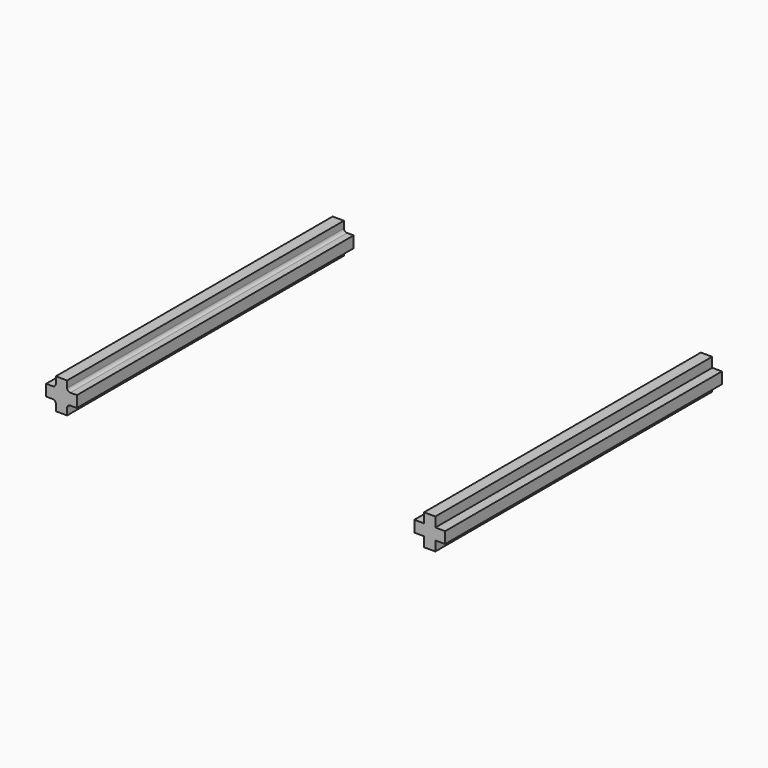
from build123d import *

# Parameters (mm, degrees)
F1_DEPTH = 55
F2_R     = 0.5


with BuildPart() as f1:
    # F0 (on Front) → F1 (new body)
    with BuildSketch(Plane.XZ):
        Polygon((-49.0550526943, 25.6427074619), (-49.0550526943, 27.442707344), (-50.6050526943, 27.4431348655), (-50.6050526943, 25.6431349835), align=None)
        Polygon((-50.6050526943, 25.6431349835), (-50.6050526943, 27.4431348655), (-52.4050526943, 27.4436313422), (-52.4050526943, 25.6436314601), align=None)
        Polygon((-52.4050526943, 27.4436313422), (-50.6050526943, 27.4431348655), (-50.6050526943, 28.9931349245), (-52.4050526943, 28.9936314011), align=None)
        Polygon((-52.4050526943, 25.6436314601), (-52.4050526943, 27.4436313422), (-53.9550526943, 27.4440588637), (-53.9550526943, 25.6440589817), align=None)
        Polygon((-50.6050526943, 24.0931349245), (-50.6050526943, 25.6431349835), (-52.4050526943, 25.6436314601), (-52.4050526943, 24.0936314011), align=None)
    extrude(amount=F1_DEPTH)

    # F2
    f2_edges = [f1.edges().sort_by_distance(p)[0] for p in [
        (-50.605053, -27.5, 27.443135),
        (-50.605053, -27.5, 25.643135),
        (-52.405053, -27.5, 27.443631),
        (-52.405053, -27.5, 25.643631),
    ]]
    fillet(f2_edges, radius=F2_R)


with BuildPart() as f1b:
    # F0 (on Front) → F1, piece 2 (new body)
    with BuildSketch(Plane.XZ):
        Polygon((9.4811289515, 25.6440589817), (9.4811289515, 27.4440588637), (7.9311289515, 27.4436313422), (7.9311289515, 25.6436314601), align=None)
        Polygon((6.1311289515, 27.4431348655), (7.9311289515, 27.4436313422), (7.9311289515, 28.9936314011), (6.1311289515, 28.9931349245), align=None)
        Polygon((7.9311289515, 25.6436314601), (7.9311289515, 27.4436313422), (6.1311289515, 27.4431348655), (6.1311289515, 25.6431349835), align=None)
        Polygon((7.9311289515, 24.0936314011), (7.9311289515, 25.6436314601), (6.1311289515, 25.6431349835), (6.1311289515, 24.0931349245), align=None)
        Polygon((6.1311289515, 25.6431349835), (6.1311289515, 27.4431348655), (4.5811289515, 27.442707344), (4.5811289515, 25.6427074619), align=None)
    extrude(amount=F1_DEPTH)


solid = Compound([f1.part, f1b.part])
